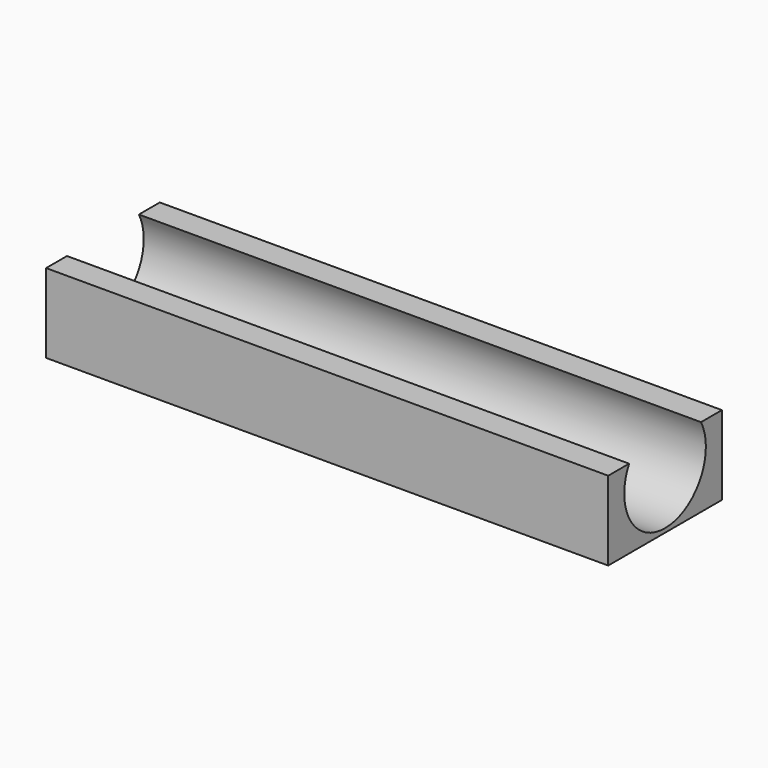
from build123d import *

# Parameters (mm, degrees)
F1_R          = 12.7
F2_DEPTH      = 70
F2_DEPTH_BACK = 70
F3_W          = 35.4
F3_H          = 19.7
F4_DEPTH      = 70
F4_DEPTH_BACK = 70


with BuildPart() as f2:
    # F1 (on Right) → F2 (new body, two sides)
    with BuildSketch(Plane.YZ) as f2_sk:
        Circle(F1_R)
    extrude(amount=F2_DEPTH)
    extrude(f2_sk.sketch, amount=-F2_DEPTH_BACK)


with BuildPart() as f4:
    # F3 (on Right) → F4 (new body, two sides)
    with BuildSketch(Plane.YZ) as f4_sk:
        with Locations((0, -3.85)):
            Rectangle(F3_W, F3_H)
    extrude(amount=F4_DEPTH)
    extrude(f4_sk.sketch, amount=-F4_DEPTH_BACK)

    # F5: cut F2
    add(f2.part, mode=Mode.SUBTRACT)


solid = f4.part
